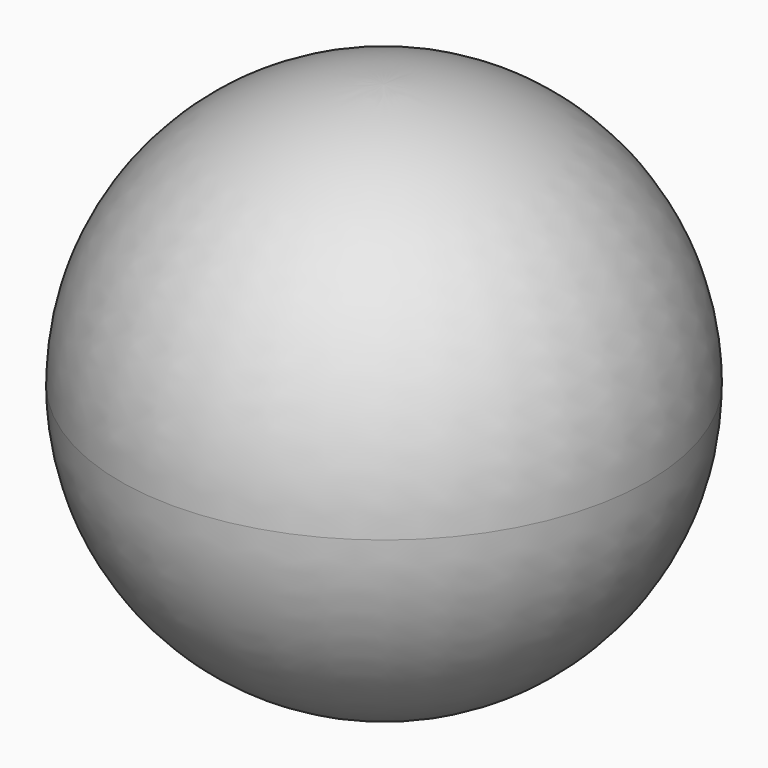
from build123d import *


with BuildPart() as f1:
    # F0 (on Right) → F1 (revolve)
    with BuildSketch(Plane.YZ):
        with BuildLine():
            ThreePointArc((0, -500), (353.553391, -353.553391), (500, 0))
            ThreePointArc((500, 0), (353.553391, 353.553391), (0, 500))
            Line((0, 500), (0, -500))
        make_face()
    revolve(axis=Axis((0, 0, 0), (0, 0, -1)))


solid = f1.part
